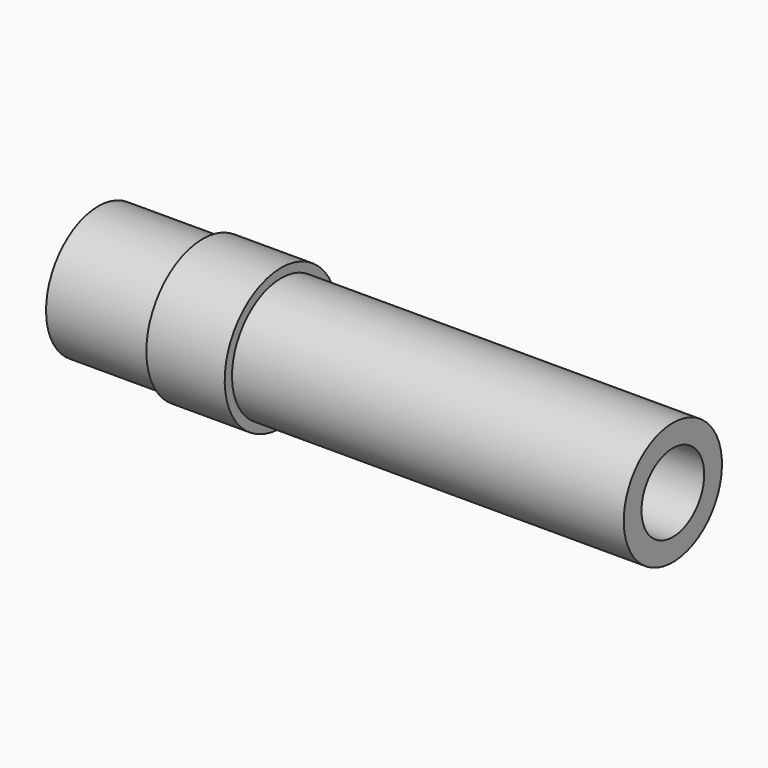
from build123d import *

# Parameters (mm, degrees)
F2_R     = 1.5
F3_DEPTH = 25


with BuildPart() as f1:
    # F0 (on Front) → F1 (revolve)
    with BuildSketch(Plane.XZ):
        Polygon((-0.037127, 2.7), (-3.037127, 2.7), (-3.037127, 2.5), (-7.037127, 2.5), (-7.037127, 0), (14.962873, 0), (14.962873, 2.35), (-0.037127, 2.35), align=None)
    revolve(axis=Axis((3.962873, 0, 0), (-1, 0, 0)))

    # F2 (on face) → F3 (cut)
    with BuildSketch(Plane.YZ.offset(14.962873)):
        Circle(F2_R)
    extrude(amount=-F3_DEPTH, mode=Mode.SUBTRACT)


solid = f1.part
